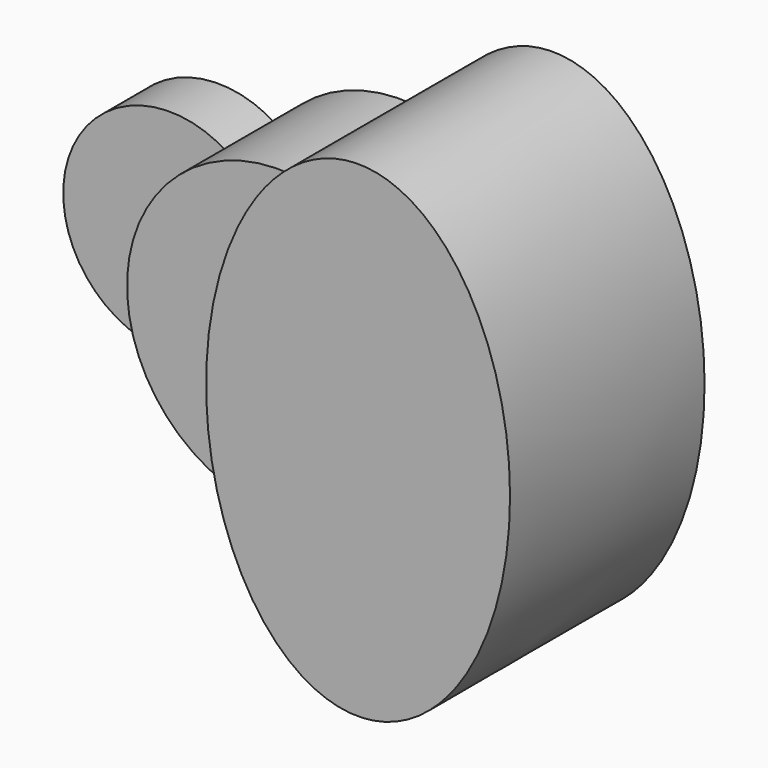
from build123d import *

# Parameters (mm, degrees)
F1_DEPTH = 25.4
F2_DEPTH = 63.5
F3_DEPTH = 101.6


with BuildPart() as f1:
    # F0 (on Front) → F1 (new body)
    with BuildSketch(Plane.XZ):
        with BuildLine():
            ThreePointArc((-51.59375, -37.0180356169), (-60.4501990278, -19.4428248333), (-63.5, 0))
            ThreePointArc((-63.5, 0), (-60.4501990278, 19.4428248333), (-51.59375, 37.0180356169))
            ThreePointArc((-51.59375, 37.0180356169), (-120.65, 0), (-51.59375, -37.0180356169))
        make_face()
    extrude(amount=F1_DEPTH)


with BuildPart() as f2:
    # F0 (on Front) → F2 (new body)
    with BuildSketch(Plane.XZ):
        with BuildLine():
            add(Edge.make_bspline(
                [(0, 0), (0, -34.6669399309), (13.2439655959, -62.1035214404)],
                knots=[1.5707963268, 1.5707963268, 1.5707963268, 2.2284418454, 2.2284418454, 2.2284418454], degree=2, weights=[1, 0.9464231645, 1]))
            Line((0, 0), (-31.75, 0))
            ThreePointArc((-31.75, 0), (-37.0237934934, -21.0006510316), (-51.59375, -37.0180356169))
            ThreePointArc((-51.59375, -37.0180356169), (-22.9128106244, -59.2220660674), (13.2439655959, -62.1035214404))
        make_face()
        with BuildLine():
            Line((-31.75, 0), (0, 0))
            add(Edge.make_bspline(
                [(13.2439655959, 62.1035214404), (0, 34.6669399309), (0, 0)],
                knots=[0.9131508081, 0.9131508081, 0.9131508081, 1.5707963268, 1.5707963268, 1.5707963268], degree=2, weights=[1, 0.9464231645, 1]))
            ThreePointArc((13.2439655959, 62.1035214404), (-22.9128106244, 59.2220660674), (-51.59375, 37.0180356169))
            ThreePointArc((-51.59375, 37.0180356169), (-37.0237934934, 21.0006510316), (-31.75, 0))
        make_face()
        with BuildLine():
            ThreePointArc((-51.59375, -37.0180356169), (-37.0237934934, -21.0006510316), (-31.75, 0))
            Line((-31.75, 0), (-63.5, 0))
            ThreePointArc((-63.5, 0), (-60.4501990278, -19.4428248333), (-51.59375, -37.0180356169))
        make_face()
        with BuildLine():
            Line((-63.5, 0), (-31.75, 0))
            ThreePointArc((-31.75, 0), (-37.0237934934, 21.0006510316), (-51.59375, 37.0180356169))
            ThreePointArc((-51.59375, 37.0180356169), (-60.4501990278, 19.4428248333), (-63.5, 0))
        make_face()
    extrude(amount=F2_DEPTH)


with BuildPart() as f3:
    # F0 (on Front) → F3 (new body)
    with BuildSketch(Plane.XZ):
        with BuildLine():
            add(Edge.make_bspline(
                [(63.5, 101.6), (32.3093875408, 101.6), (13.2439655959, 62.1035214404)],
                knots=[0, 0, 0, 0.9131508081, 0.9131508081, 0.9131508081], degree=2, weights=[1, 0.8975675831, 1]))
            ThreePointArc((13.2439655959, 62.1035214404), (49.3621404284, 39.9453262889), (63.5, 0))
            ThreePointArc((63.5, 0), (49.3621404284, -39.9453262889), (13.2439655959, -62.1035214404))
            add(Edge.make_bspline(
                [(13.2439655959, -62.1035214404), (75.5537087854, -191.1861844445), (120.4955415237, -44.7930922222), (165.437374262, 101.6), (63.5, 101.6)],
                knots=[2.2284418454, 2.2284418454, 2.2284418454, 4.2558135763, 4.2558135763, 6.2831853072, 6.2831853072, 6.2831853072], degree=2, weights=[1, 0.5287358074, 1, 0.5287358074, 1]))
        make_face()
        with BuildLine():
            add(Edge.make_bspline(
                [(13.2439655959, 62.1035214404), (0, 34.6669399309), (0, 0)],
                knots=[0.9131508081, 0.9131508081, 0.9131508081, 1.5707963268, 1.5707963268, 1.5707963268], degree=2, weights=[1, 0.9464231645, 1]))
            add(Edge.make_bspline(
                [(0, 0), (0, -34.6669399309), (13.2439655959, -62.1035214404)],
                knots=[1.5707963268, 1.5707963268, 1.5707963268, 2.2284418454, 2.2284418454, 2.2284418454], degree=2, weights=[1, 0.9464231645, 1]))
            ThreePointArc((13.2439655959, -62.1035214404), (49.3621404284, -39.9453262889), (63.5, 0))
            ThreePointArc((63.5, 0), (49.3621404284, 39.9453262889), (13.2439655959, 62.1035214404))
        make_face()
    extrude(amount=F3_DEPTH)


solid = Compound([f1.part, f2.part, f3.part])
